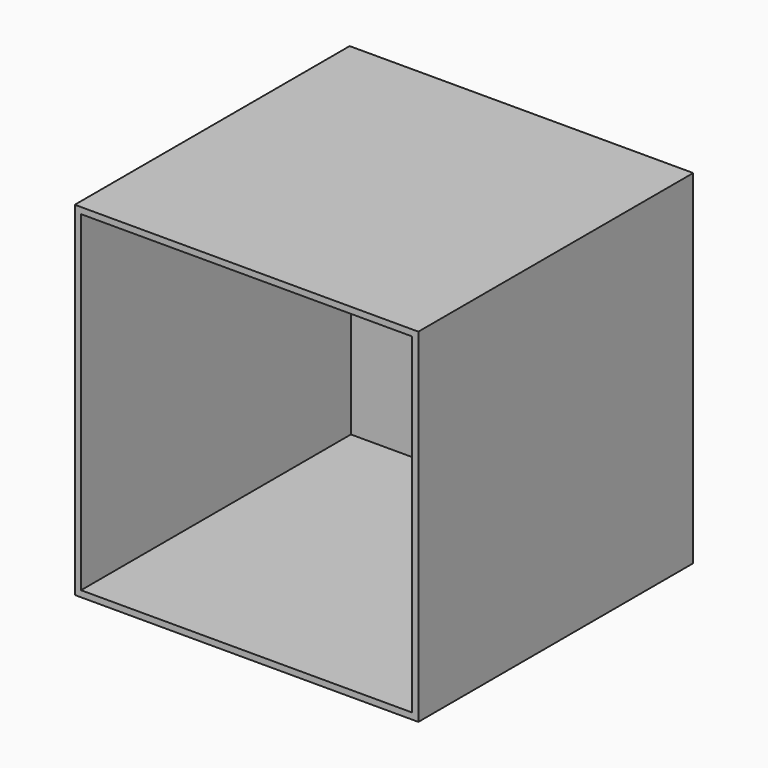
from build123d import *

# Parameters (mm, degrees)
F0_W     = 550
F0_H     = 550
F1_DEPTH = 550
F2_W     = 530
F2_H     = 530
F3_DEPTH = 540


with BuildPart() as f1:
    # F0 (on Top) → F1 (new body)
    with BuildSketch(Plane.XY):
        with Locations((-236.357567, 253.178654)):
            Rectangle(F0_W, F0_H)
    extrude(amount=-F1_DEPTH)

    # F2 (on face) → F3 (cut)
    with BuildSketch(Plane.XZ.offset(21.821346)):
        with Locations((-236.357567, -275)):
            Rectangle(F2_W, F2_H)
    extrude(amount=-F3_DEPTH, mode=Mode.SUBTRACT)


solid = f1.part
